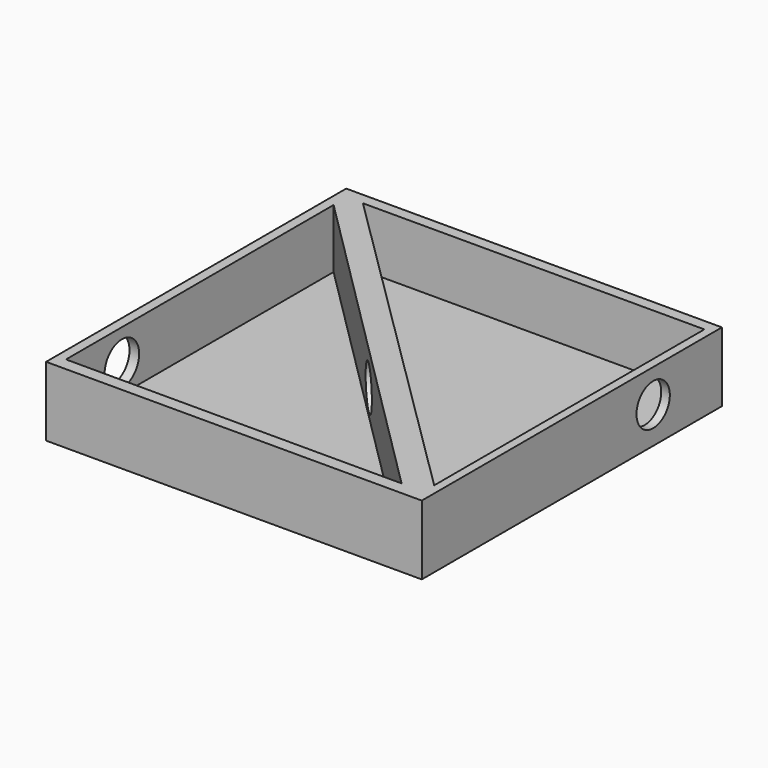
from build123d import *

# Parameters (mm, degrees)
F0_W     = 137.495763
F0_H     = 137.29991
F1_DEPTH = 25.4
F2_DEPTH = 3.81
F3_DEPTH = 3.81
F5_D     = 15.24
F5_DEPTH = 12.7
F7_D     = 15.7988
F7_DEPTH = 12.7
F9_D     = 15.7988
F9_DEPTH = 12.7


with BuildPart() as f1:
    # F0 (on Top) → F1 (new body)
    with BuildSketch(Plane.XY):
        with Locations((2.350356, 0.783451)):
            Rectangle(F0_W, F0_H)
        Polygon((-62.872, 59.248533), (-62.872, 65.320283), (-56.996111, 65.320283), (67.964435, 65.320283), (67.964435, -58.269218), (67.964435, -63.165791), (59.93405, -63.165791), (-62.872, -63.165791), align=None, mode=Mode.SUBTRACT)
        Polygon((-56.996111, 65.320283), (-62.872, 65.320283), (-62.872, 59.248533), (59.93405, -63.165791), (67.964435, -63.165791), (67.964435, -58.269218), align=None)
    extrude(amount=F1_DEPTH)

    # F0 (on Top) → F2 (join)
    with BuildSketch(Plane.XY):
        Polygon((67.964435, 65.320283), (-56.996111, 65.320283), (67.964435, -58.269218), align=None)
    extrude(amount=F2_DEPTH)

    # F0 (on Top) → F3 (join)
    with BuildSketch(Plane.XY):
        Polygon((59.93405, -63.165791), (-62.872, 59.248533), (-62.872, -63.165791), align=None)
    extrude(amount=F3_DEPTH)

    # F5
    with Locations(Plane.YZ.offset(71.098238)):
        with Locations((37.975904, 13.292117)):
            Hole(F5_D / 2, depth=F5_DEPTH)

    # F7
    with Locations(Plane(origin=(-66.397525, 0, 0), x_dir=(0, -1, 0), z_dir=(-1, 0, 0))):
        with Locations((37.605681, 13.612472)):
            Hole(F7_D / 2, depth=F7_DEPTH)

    # F9
    with Locations(Plane(origin=(-1.711451, -1.716927, 0), x_dir=(0.708235, -0.705976, 0), z_dir=(-0.705976, -0.708235, 0))):
        with Locations((3.334498, 12.943435)):
            Hole(F9_D / 2, depth=F9_DEPTH)


solid = f1.part
